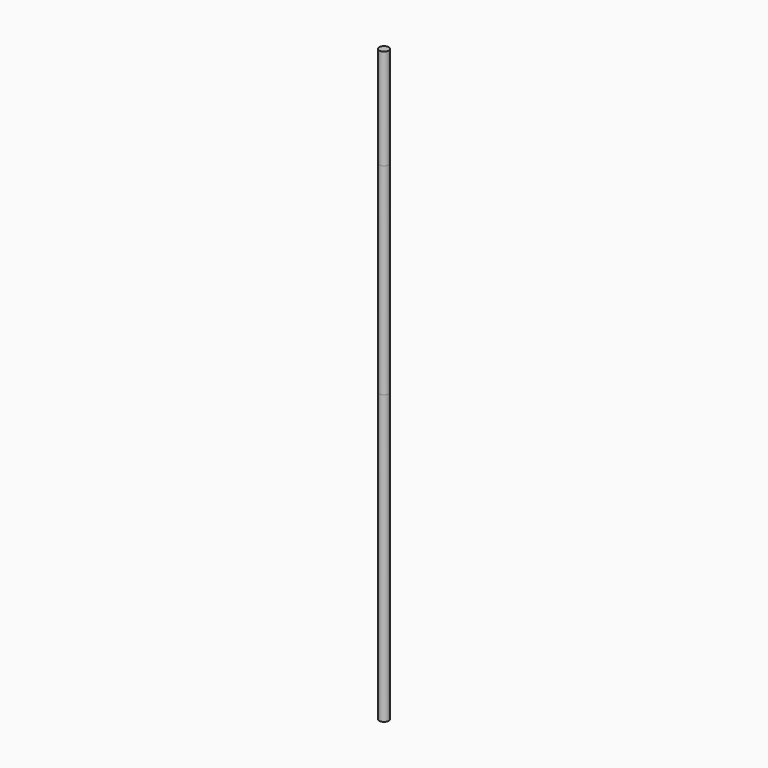
from build123d import *

# Parameters (mm, degrees)
F0_R     = 3.25
F1_DEPTH = 200
F2_DEPTH = 100
F3_DEPTH = 140
F4_DEPTH = 70


with BuildPart() as f1:
    # F0 (on Top) → F1 (new body)
    with BuildSketch(Plane.XY):
        Circle(F0_R)
    extrude(amount=F1_DEPTH)


with BuildPart() as f2:
    # F2 (new): a face of the model
    f2_faces = [f1.part.faces().sort_by_distance(p)[0] for p in [
        (0, 0, 200),
    ]]
    extrude(f2_faces, amount=F2_DEPTH)


with BuildPart() as f3:
    # F3 (new): a face of the model
    f3_faces = [f1.part.faces().sort_by_distance(p)[0] for p in [
        (0, 0, 200),
    ]]
    extrude(f3_faces, amount=F3_DEPTH)


with BuildPart() as f4:
    # F4 (new): a face of the model
    f4_faces = [f3.part.faces().sort_by_distance(p)[0] for p in [
        (0, 0, 340),
    ]]
    extrude(f4_faces, amount=F4_DEPTH)


solid = Compound([f1.part, f2.part, f3.part, f4.part])
